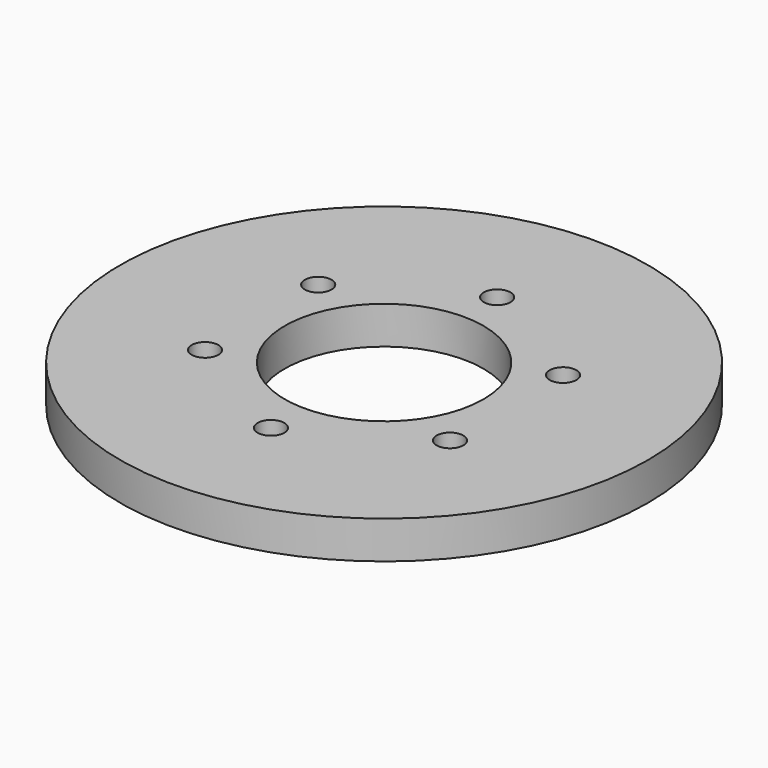
from build123d import *

# Parameters (mm, degrees)
F0_R     = 44.45
F1_DEPTH = 6.35
F2_R     = 16.7386
F3_DEPTH = 6.35
F10_D    = 4.4958
F11_D    = 4.4958
F12_D    = 4.4958
F13_D    = 4.4958
F14_D    = 4.4958
F15_D    = 4.4958


with BuildPart() as f1:
    # F0 (on Top) → F1 (new body)
    with BuildSketch(Plane.XY):
        Circle(F0_R)
    extrude(amount=F1_DEPTH)

    # F2 (on face) → F3 (cut)
    with BuildSketch(Plane.XY.offset(6.35)):
        Circle(F2_R)
    extrude(amount=-F3_DEPTH, mode=Mode.SUBTRACT)

    # F10 (through all)
    with Locations(Plane(origin=(0, 0, 0), x_dir=(1, 0, 0), z_dir=(0, 0, -1))):
        with Locations((0, -23.7994737715)):
            Hole(F10_D / 2)

    # F11 (through all)
    with Locations(Plane(origin=(0, 0, 0), x_dir=(1, 0, 0), z_dir=(0, 0, -1))):
        with Locations((-20.6213220954, -11.9066275656)):
            Hole(F11_D / 2)

    # F12 (through all)
    with Locations(Plane(origin=(0, 0, 0), x_dir=(1, 0, 0), z_dir=(0, 0, -1))):
        with Locations((20.6105131656, -11.9145931676)):
            Hole(F12_D / 2)

    # F13 (through all)
    with Locations(Plane(origin=(0, 0, 0), x_dir=(1, 0, 0), z_dir=(0, 0, -1))):
        with Locations((-20.6335756557, 11.8970761348)):
            Hole(F13_D / 2)

    # F14 (through all)
    with Locations(Plane(origin=(0, 0, 0), x_dir=(1, 0, 0), z_dir=(0, 0, -1))):
        with Locations((20.6222459674, 11.9062252343)):
            Hole(F14_D / 2)

    # F15 (through all)
    with Locations(Plane(origin=(0, 0, 0), x_dir=(1, 0, 0), z_dir=(0, 0, -1))):
        with Locations((0, 23.8109349498)):
            Hole(F15_D / 2)


solid = f1.part
